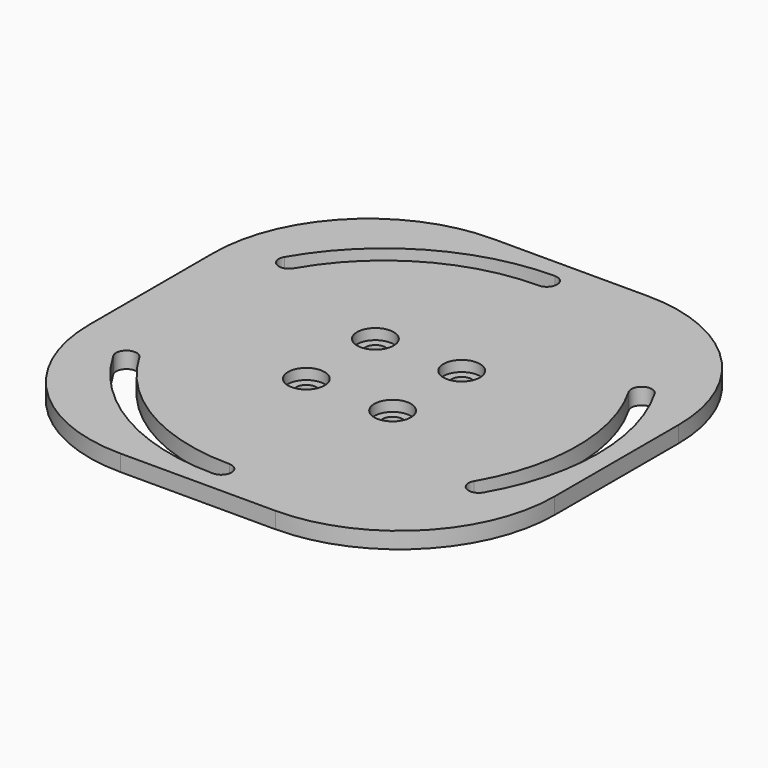
from build123d import *

# Parameters (mm, degrees)
F0_W           = 152.4
F0_H           = 152.4
F0_W_2         = 28.2842712475
F0_H_2         = 28.2842712475
F1_DEPTH       = 6.35
F2_D           = 6.6
F2_CBORE_D     = 12
F2_CBORE_DEPTH = 3.5
F3_R           = 50.8
F4_R           = 6
F5_DEPTH       = 1


with BuildPart() as f1:
    # F0 (on Top) → F1 (new body)
    with BuildSketch(Plane.XY):
        Rectangle(F0_W, F0_H)
        with BuildLine():
            ThreePointArc((0, -63.3095), (3.3655, -66.675), (0, -70.0405))
            ThreePointArc((0, -70.0405), (-35.02025, -60.6568522938), (-60.6568522938, -35.02025))
            ThreePointArc((-60.6568522938, -35.02025), (-59.4249937973, -30.4228915036), (-54.8276353009, -31.65475))
            ThreePointArc((-54.8276353009, -31.65475), (-31.65475, -54.8276353009), (0, -63.3095))
        make_face(mode=Mode.SUBTRACT)
        with BuildLine():
            ThreePointArc((-54.8276353009, 31.65475), (-59.4249937973, 30.4228915036), (-60.6568522938, 35.02025))
            ThreePointArc((-60.6568522938, 35.02025), (-35.02025, 60.6568522938), (0, 70.0405))
            ThreePointArc((0, 70.0405), (3.3655, 66.675), (0, 63.3095))
            ThreePointArc((0, 63.3095), (-31.65475, 54.8276353009), (-54.8276353009, 31.65475))
        make_face(mode=Mode.SUBTRACT)
        Rectangle(F0_W_2, F0_H_2, mode=Mode.SUBTRACT)
        with BuildLine():
            ThreePointArc((54.8276353009, 31.65475), (56.0594937973, 36.2521084964), (60.6568522938, 35.02025))
            ThreePointArc((60.6568522938, 35.02025), (70.0405, 0), (60.6568522938, -35.02025))
            ThreePointArc((60.6568522938, -35.02025), (56.0594937973, -36.2521084964), (54.8276353009, -31.65475))
            ThreePointArc((54.8276353009, -31.65475), (63.3095, 0), (54.8276353009, 31.65475))
        make_face(mode=Mode.SUBTRACT)
        Rectangle(F0_W_2, F0_H_2)
    extrude(amount=-F1_DEPTH)

    # F2 (through all)
    with Locations(Plane.XY):
        with Locations((14.1421356237, 14.1421356237), (14.1421356237, -14.1421356237), (-14.1421356237, -14.1421356237), (-14.1421356237, 14.1421356237)):
            CounterBoreHole(F2_D / 2, F2_CBORE_D / 2, F2_CBORE_DEPTH)

    # F3
    f3_edges = [f1.edges().sort_by_distance(p)[0] for p in [
        (76.2, -76.2, -3.175),
        (-76.2, -76.2, -3.175),
        (76.2, 76.2, -3.175),
        (-76.2, 76.2, -3.175),
    ]]
    fillet(f3_edges, radius=F3_R)

    # F4 (on face) → F5 (cut)
    with BuildSketch(Plane(origin=(0, 0, -6.35), x_dir=(1, 0, 0), z_dir=(0, 0, -1))):
        with BuildLine():
            ThreePointArc((-76.2, -25.4), (-61.3210244843, -61.3210244843), (-25.4, -76.2))
            Line((-25.4, -76.2), (25.4, -76.2))
            ThreePointArc((25.4, -76.2), (61.3210244843, -61.3210244843), (76.2, -25.4))
            Line((76.2, -25.4), (76.2, 25.4))
            ThreePointArc((76.2, 25.4), (61.3210244843, 61.3210244843), (25.4, 76.2))
            Line((25.4, 76.2), (-25.4, 76.2))
            ThreePointArc((-25.4, 76.2), (-61.3210244843, 61.3210244843), (-76.2, 25.4))
            Line((-76.2, 25.4), (-76.2, -25.4))
        make_face()
        with BuildLine():
            ThreePointArc((-54.8276353009, -31.65475), (-31.65475, -54.8276353009), (0, -63.3095))
            ThreePointArc((0, -63.3095), (3.3655, -66.675), (0, -70.0405))
            ThreePointArc((0, -70.0405), (-35.02025, -60.6568522938), (-60.6568522938, -35.02025))
            ThreePointArc((-60.6568522938, -35.02025), (-59.4249937973, -30.4228915036), (-54.8276353009, -31.65475))
        make_face(mode=Mode.SUBTRACT)
        with Locations((-14.1421356237, -14.1421356237)):
            Circle(F4_R, mode=Mode.SUBTRACT)
        with Locations((14.1421356237, -14.1421356237)):
            Circle(F4_R, mode=Mode.SUBTRACT)
        with BuildLine():
            ThreePointArc((60.6568522938, -35.02025), (56.0594937973, -36.2521084964), (54.8276353009, -31.65475))
            ThreePointArc((54.8276353009, -31.65475), (63.3095, 0), (54.8276353009, 31.65475))
            ThreePointArc((54.8276353009, 31.65475), (56.0594937973, 36.2521084964), (60.6568522938, 35.02025))
            ThreePointArc((60.6568522938, 35.02025), (70.0405, 0), (60.6568522938, -35.02025))
        make_face(mode=Mode.SUBTRACT)
        with Locations((-14.1421356237, 14.1421356237)):
            Circle(F4_R, mode=Mode.SUBTRACT)
        with BuildLine():
            ThreePointArc((-54.8276353009, 31.65475), (-59.4249937973, 30.4228915036), (-60.6568522938, 35.02025))
            ThreePointArc((-60.6568522938, 35.02025), (-35.02025, 60.6568522938), (0, 70.0405))
            ThreePointArc((0, 70.0405), (3.3655, 66.675), (0, 63.3095))
            ThreePointArc((0, 63.3095), (-31.65475, 54.8276353009), (-54.8276353009, 31.65475))
        make_face(mode=Mode.SUBTRACT)
        with Locations((14.1421356237, 14.1421356237)):
            Circle(F4_R, mode=Mode.SUBTRACT)
    extrude(amount=-F5_DEPTH, mode=Mode.SUBTRACT)


solid = f1.part
